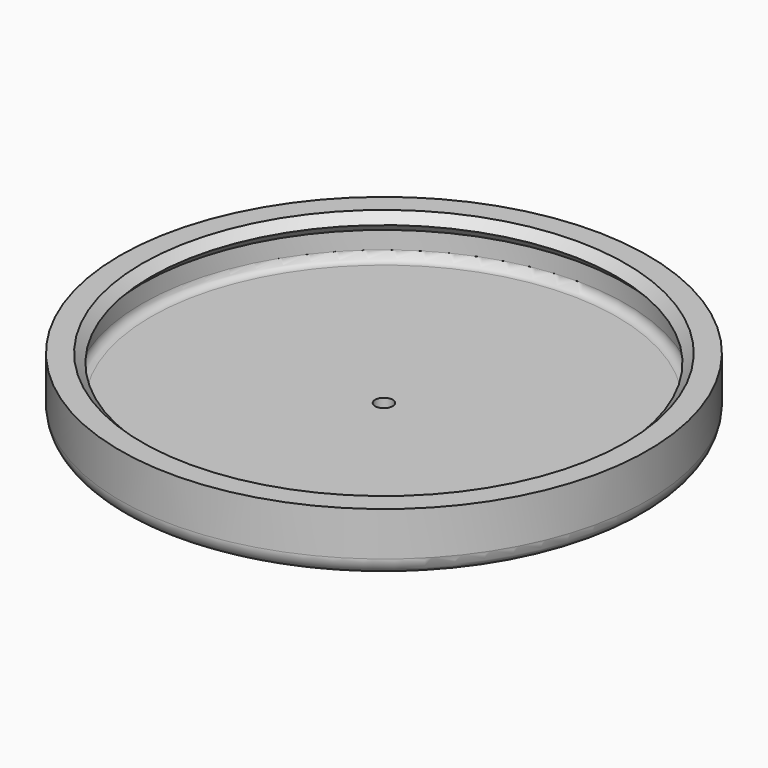
from build123d import *

# Parameters (mm, degrees)
F2_R     = 1
F3_DEPTH = 25


with BuildPart() as f1:
    # F0 (on Front) → F1 (revolve)
    with BuildSketch(Plane.XZ):
        with BuildLine():
            Line((-28, 0), (0, 0))
            Line((0, 0), (0, 2))
            Line((0, 2), (-26.5, 2))
            ThreePointArc((-26.5, 2), (-27.207107, 2.292893), (-27.5, 3))
            Line((-27.5, 3), (-27.5, 5))
            Line((-27.5, 5), (-26.5, 6))
            Line((-26.5, 6), (-27.5, 7))
            Line((-27.5, 7), (-30, 7))
            Line((-30, 7), (-30, 2))
            ThreePointArc((-30, 2), (-29.414214, 0.585786), (-28, 0))
        make_face()
    revolve(axis=Axis((0, 0, 1), (0, 0, 1)))

    # F2 (on face) → F3 (cut)
    with BuildSketch(Plane(origin=(0, 0, 0), x_dir=(1, 0, 0), z_dir=(0, 0, -1))):
        Circle(F2_R)
    extrude(amount=-F3_DEPTH, mode=Mode.SUBTRACT)


solid = f1.part
